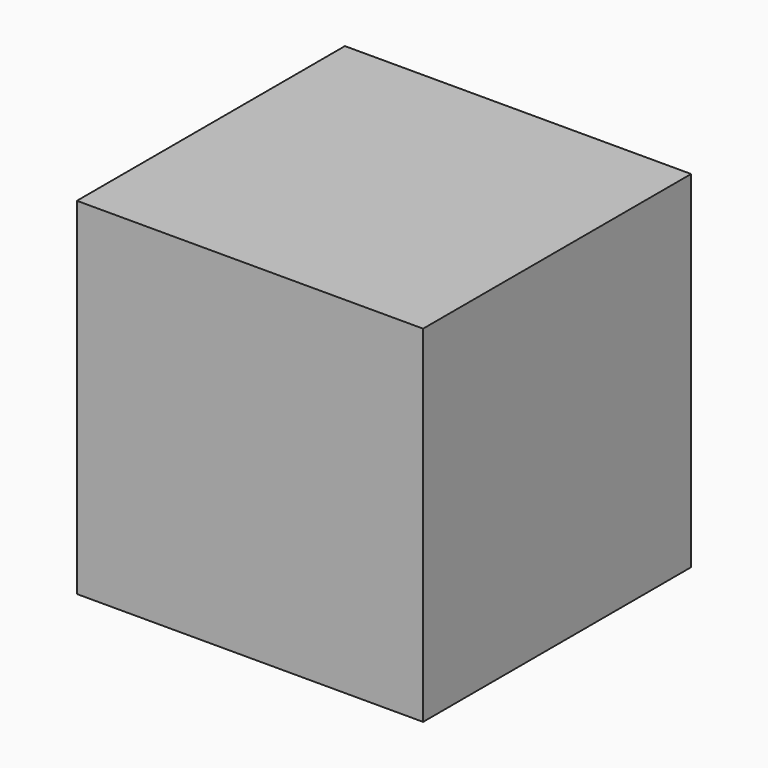
from build123d import *

# Parameters (mm, degrees)
F0_W     = 42
F0_H     = 42
F1_DEPTH = 40.64
F2_R     = 2.5
F3_DEPTH = 12.7


with BuildPart() as f1:
    # F0 (on Front) → F1 (new body)
    with BuildSketch(Plane.XZ):
        Rectangle(F0_W, F0_H)
    extrude(amount=F1_DEPTH)

    # F2 (on face) → F3 (join)
    with BuildSketch(Plane(origin=(0, 0, 0), x_dir=(-1, 0, 0), z_dir=(0, 1, 0))):
        Circle(F2_R)
    extrude(amount=F3_DEPTH)


solid = f1.part
